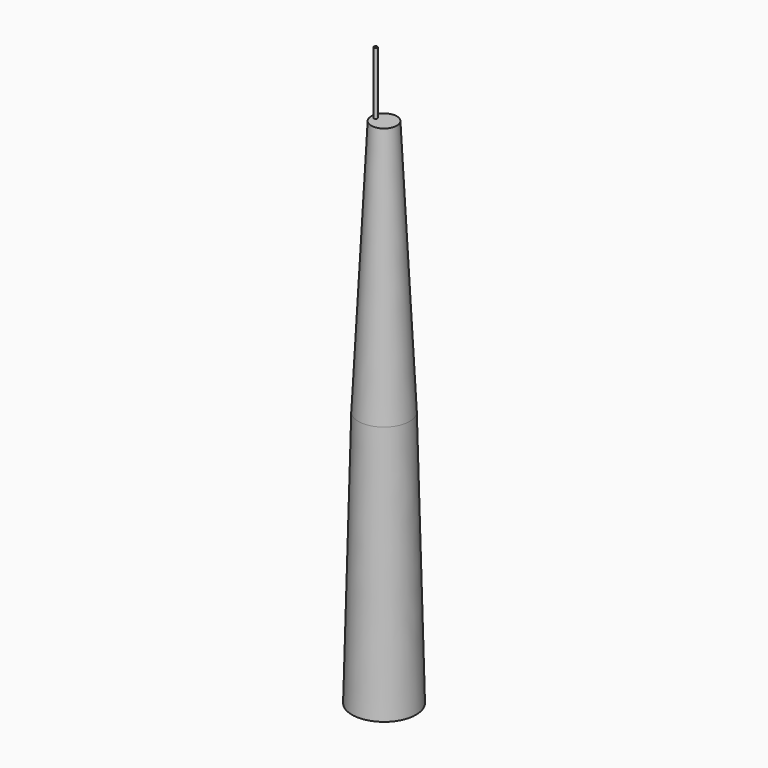
from build123d import *

# Parameters (mm, degrees)
F0_R      = 317.5
F2_R      = 254
F5_FACE_R = 254
F4_R      = 127
F7_W      = 17.9452002048
F7_H      = 616.916179657


with BuildPart() as f5:
    # F0 (on Top) → F5 section 0
    with BuildSketch(Plane.XY):
        Circle(F0_R)
    # F2 (on offset) → F5 section 1
    with BuildSketch(Plane.XY.offset(2540)):
        Circle(F2_R)
    loft()

    # F5_face (on face) → F6 section 0
    with BuildSketch(Plane.XY.offset(2540)):
        Circle(F5_FACE_R)
    # F4 (on offset) → F6 section 1
    with BuildSketch(Plane.XY.offset(5080)):
        Circle(F4_R)
    loft()


with BuildPart() as f8:
    # F7 (on Front) → F8 (revolve)
    with BuildSketch(Plane.XZ):
        with Locations((-92.7489846945, 5388.516664505)):
            Rectangle(F7_W, F7_H)
    revolve(axis=Axis((-83.7763845921, 0, 5388.516664505), (0, 0, -1)))


solid = Compound([f5.part, f8.part])
